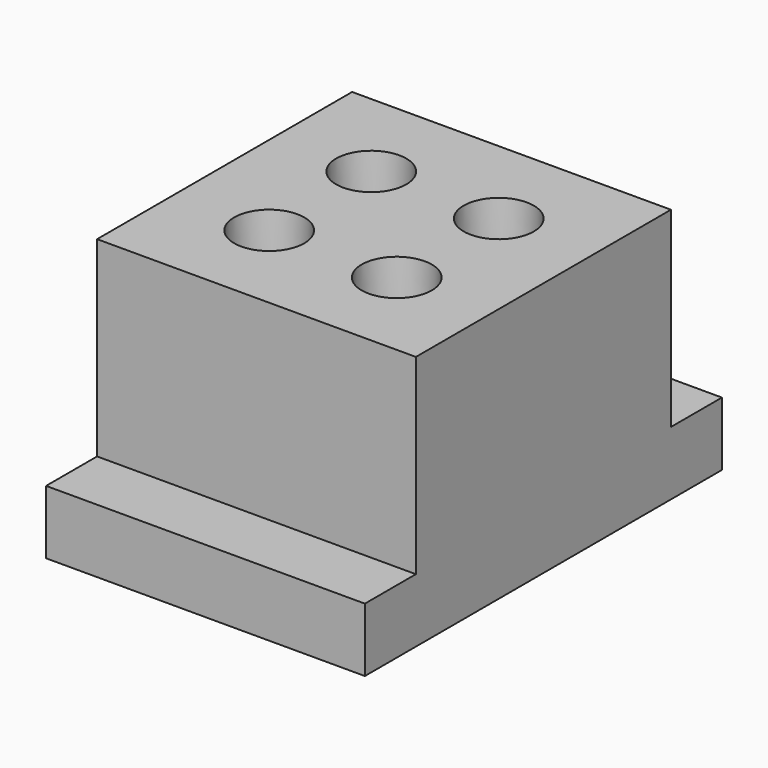
from build123d import *

# Parameters (mm, degrees)
F0_W     = 50
F0_H     = 50
F1_DEPTH = 30
F2_R     = 4.45
F3_DEPTH = 30
F3_TAPER = -2
F4_W     = 50
F4_H     = 70
F5_DEPTH = 10


with BuildPart() as f1:
    # F0 (on Top) → F1 (new body)
    with BuildSketch(Plane.XY):
        Rectangle(F0_W, F0_H)
    extrude(amount=F1_DEPTH)

    # F2 (on Top) → F3 (cut)
    with BuildSketch(Plane.XY):
        with Locations((10, 10)):
            Circle(F2_R)
        with Locations((-10, 10)):
            Circle(F2_R)
        with Locations((10, -10)):
            Circle(F2_R)
        with Locations((-10, -10)):
            Circle(F2_R)
    extrude(amount=F3_DEPTH, taper=F3_TAPER, mode=Mode.SUBTRACT)

    # F4 (on Top) → F5 (join)
    with BuildSketch(Plane.XY):
        Rectangle(F4_W, F4_H)
    extrude(amount=-F5_DEPTH)


solid = f1.part
